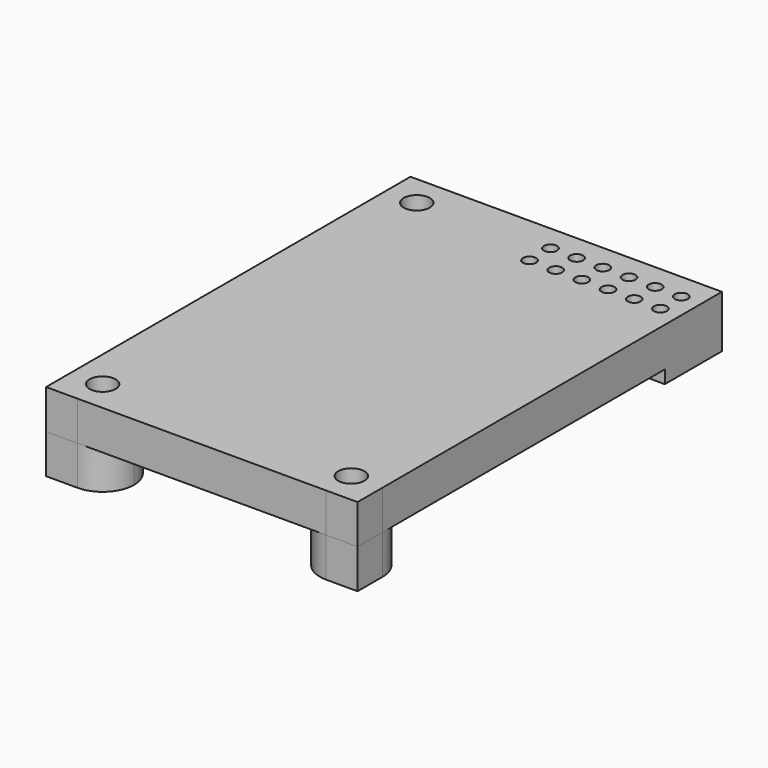
from build123d import *

# Parameters (mm, degrees)
F0_W     = 23.8
F0_H     = 34.8
F0_R     = 1
F0_R_2   = 0.5
F1_DEPTH = 3
F2_W     = 13.1776794076
F2_H     = 5.4540345015
F2_R     = 0.5
F3_DEPTH = 4
F2_R_2   = 1
F4_DEPTH = 6


with BuildPart() as f1:
    # F0 (on Top) → F1 (new body)
    with BuildSketch(Plane.XY):
        with Locations((9.116370061, -14.1891674453)):
            Rectangle(F0_W, F0_H)
        with Locations((-0.383629939, -29.1891674453)):
            Circle(F0_R, mode=Mode.SUBTRACT)
        with Locations((18.616370061, -29.1891674453)):
            Circle(F0_R, mode=Mode.SUBTRACT)
        with Locations((-0.383629939, 0.8108325547)):
            Circle(F0_R, mode=Mode.SUBTRACT)
        with Locations((9.516370061, -0.7891674453)):
            Circle(F0_R_2, mode=Mode.SUBTRACT)
        with Locations((11.516370061, -0.7891674453)):
            Circle(F0_R_2, mode=Mode.SUBTRACT)
        with Locations((9.516370061, 1.2108325547)):
            Circle(F0_R_2, mode=Mode.SUBTRACT)
        with Locations((11.516370061, 1.2108325547)):
            Circle(F0_R_2, mode=Mode.SUBTRACT)
        with Locations((13.516370061, -0.7891674453)):
            Circle(F0_R_2, mode=Mode.SUBTRACT)
        with Locations((13.516370061, 1.2108325547)):
            Circle(F0_R_2, mode=Mode.SUBTRACT)
        with Locations((15.516370061, -0.7891674453)):
            Circle(F0_R_2, mode=Mode.SUBTRACT)
        with Locations((17.516370061, -0.7891674453)):
            Circle(F0_R_2, mode=Mode.SUBTRACT)
        with Locations((15.516370061, 1.2108325547)):
            Circle(F0_R_2, mode=Mode.SUBTRACT)
        with Locations((17.516370061, 1.2108325547)):
            Circle(F0_R_2, mode=Mode.SUBTRACT)
        with Locations((19.516370061, -0.7891674453)):
            Circle(F0_R_2, mode=Mode.SUBTRACT)
        with Locations((19.516370061, 1.2108325547)):
            Circle(F0_R_2, mode=Mode.SUBTRACT)
    extrude(amount=F1_DEPTH)

    # F2 (on face) → F3 (join)
    with BuildSketch(Plane.XY.offset(3)):
        with Locations((14.4275303572, 0.4838153039)):
            Rectangle(F2_W, F2_H)
        with Locations((9.516370061, -0.7891674453)):
            Circle(F2_R, mode=Mode.SUBTRACT)
        with Locations((11.516370061, -0.7891674453)):
            Circle(F2_R, mode=Mode.SUBTRACT)
        with Locations((9.516370061, 1.2108325547)):
            Circle(F2_R, mode=Mode.SUBTRACT)
        with Locations((11.516370061, 1.2108325547)):
            Circle(F2_R, mode=Mode.SUBTRACT)
        with Locations((13.516370061, -0.7891674453)):
            Circle(F2_R, mode=Mode.SUBTRACT)
        with Locations((13.516370061, 1.2108325547)):
            Circle(F2_R, mode=Mode.SUBTRACT)
        with Locations((15.516370061, -0.7891674453)):
            Circle(F2_R, mode=Mode.SUBTRACT)
        with Locations((17.516370061, -0.7891674453)):
            Circle(F2_R, mode=Mode.SUBTRACT)
        with Locations((15.516370061, 1.2108325547)):
            Circle(F2_R, mode=Mode.SUBTRACT)
        with Locations((17.516370061, 1.2108325547)):
            Circle(F2_R, mode=Mode.SUBTRACT)
        with Locations((19.516370061, -0.7891674453)):
            Circle(F2_R, mode=Mode.SUBTRACT)
        with Locations((19.516370061, 1.2108325547)):
            Circle(F2_R, mode=Mode.SUBTRACT)
    extrude(amount=-F3_DEPTH)

    # F2 (on face) → F4 (join)
    with BuildSketch(Plane.XY.offset(3)):
        with BuildLine():
            ThreePointArc((2.016370061, 0.8108325547), (1.3134263377, 2.5078888278), (-0.383629934, 3.2108325547))
            ThreePointArc((-0.383629934, 3.2108325547), (-2.0806862085, 2.5078888348), (-2.783629939, 0.8108325647))
            ThreePointArc((-2.783629939, 0.8108325647), (-0.383629944, -1.5891674453), (2.016370061, 0.8108325547))
        make_face()
        with Locations((-0.383629939, 0.8108325547)):
            Circle(F2_R_2, mode=Mode.SUBTRACT)
        with BuildLine():
            ThreePointArc((2.016370061, -29.1891674453), (-0.383629939, -26.7891674453), (-2.783629939, -29.1891674453))
            ThreePointArc((-2.783629939, -29.1891674453), (-2.0806862184, -30.8862237155), (-0.383629952, -31.5891674453))
            ThreePointArc((-0.383629952, -31.5891674453), (1.3134263313, -30.8862237248), (2.016370061, -29.1891674453))
        make_face()
        with Locations((-0.383629939, -29.1891674453)):
            Circle(F2_R_2, mode=Mode.SUBTRACT)
        with BuildLine():
            ThreePointArc((18.616370061, -31.5891674453), (20.3134263359, -30.8862237202), (21.016370061, -29.1891674453))
            ThreePointArc((21.016370061, -29.1891674453), (16.9193137862, -27.4921111705), (18.616370061, -31.5891674453))
        make_face()
        with Locations((18.616370061, -29.1891674453)):
            Circle(F2_R_2, mode=Mode.SUBTRACT)
        with BuildLine():
            Line((21.016370061, -31.5891674453), (21.016370061, -29.1891674453))
            ThreePointArc((21.016370061, -29.1891674453), (20.3134263359, -30.8862237202), (18.616370061, -31.5891674453))
            Line((18.616370061, -31.5891674453), (21.016370061, -31.5891674453))
        make_face()
        with BuildLine():
            ThreePointArc((-0.383629952, -31.5891674453), (-2.0806862184, -30.8862237155), (-2.783629939, -29.1891674453))
            Line((-2.783629939, -29.1891674453), (-2.783629939, -31.5891674453))
            Line((-2.783629939, -31.5891674453), (-0.383629952, -31.5891674453))
        make_face()
        with BuildLine():
            ThreePointArc((-2.783629939, 0.8108325647), (-2.0806862085, 2.5078888348), (-0.383629934, 3.2108325547))
            Line((-0.383629934, 3.2108325547), (-2.783629939, 3.2108325547))
            Line((-2.783629939, 3.2108325547), (-2.783629939, 0.8108325647))
        make_face()
    extrude(amount=-F4_DEPTH)


solid = f1.part
